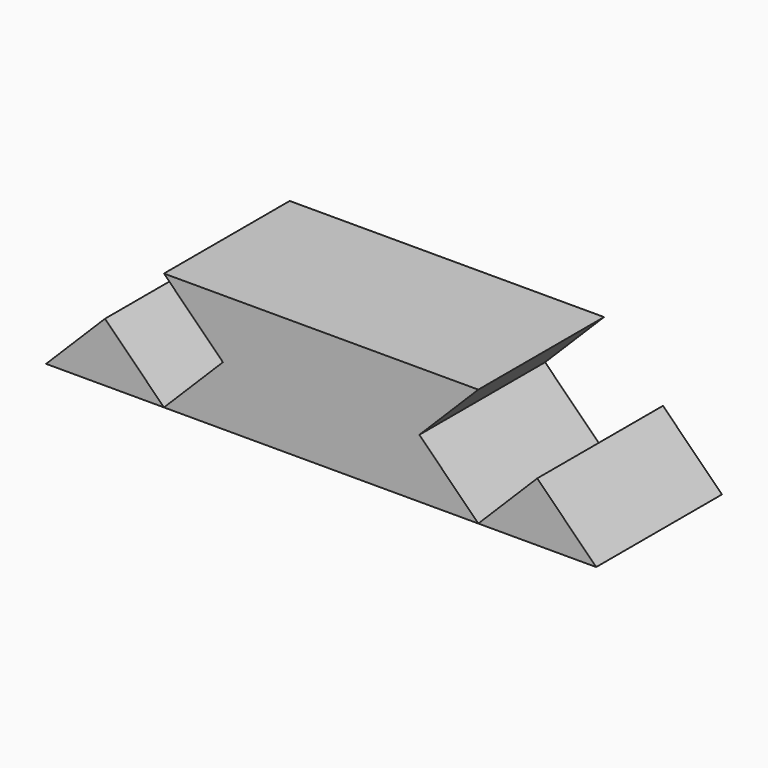
from build123d import *

# Parameters (mm, degrees)
F1_DEPTH = 25.4


with BuildPart() as f1:
    # F0 (on Front) → F1 (new body)
    with BuildSketch(Plane.XZ):
        Polygon((-15.875, 0), (-25.4, -9.525), (25.4, -9.525), (15.875, 0), (25.4, 9.525), (-25.4, 9.525), align=None)
        Polygon((-44.449997, -9.525), (-25.4, -9.525), (-34.924998, -2e-06), align=None)
        Polygon((34.924998, -2e-06), (25.4, -9.525), (44.449997, -9.525), align=None)
    extrude(amount=F1_DEPTH)


solid = f1.part
